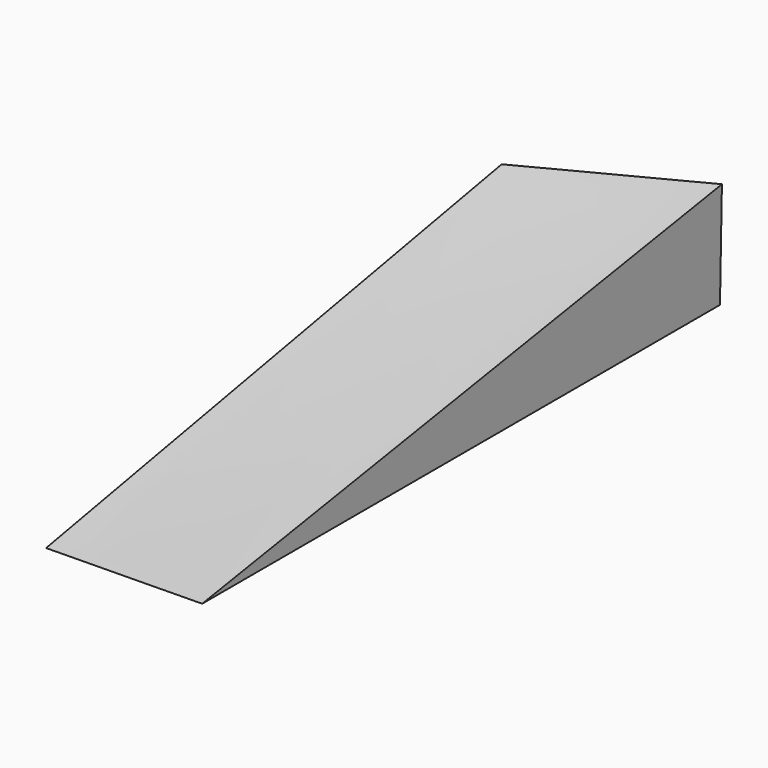
from build123d import *


with BuildPart() as f3:
    # F2 (on offset) → F3 section 0
    with BuildSketch(Plane.YZ.offset(25.4)):
        Polygon((32.283768, 0), (32.686137, 17.354805), (-74.457943, 0), align=None)
    # F0 (on Right) → F3 section 1
    with BuildSketch(Plane.YZ):
        Polygon((19.03436, 0), (19.03436, 17.54147), (-74.886329, 0), align=None)
    loft()


solid = f3.part
